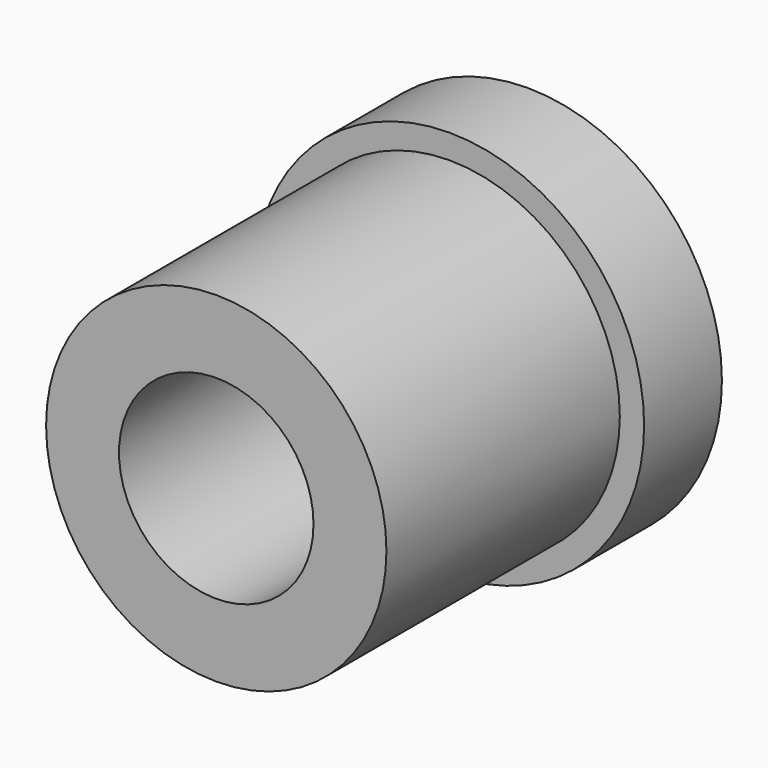
from build123d import *

# Parameters (mm, degrees)
F0_R     = 12.7
F0_R_2   = 6.35
F1_DEPTH = 25.4
F2_R     = 3.3782
F3_DEPTH = 6.35
F4_R     = 12.7
F4_R_2   = 11.1125
F5_DEPTH = 25.4
F6_R     = 4.2799
F7_DEPTH = 25.4


with BuildPart() as f1:
    # F0 (on Front) → F1 (new body)
    with BuildSketch(Plane.XZ):
        Circle(F0_R)
        Circle(F0_R_2, mode=Mode.SUBTRACT)
    extrude(amount=F1_DEPTH)

    # F4 (on face) → F5 (cut)
    with BuildSketch(Plane.XZ.offset(6.35)):
        Circle(F4_R)
        Circle(F4_R_2, mode=Mode.SUBTRACT)
    extrude(amount=F5_DEPTH, mode=Mode.SUBTRACT)


with BuildPart() as f3:
    # F2 (on Front) → F3 (new body)
    with BuildSketch(Plane.XZ):
        Circle(F2_R)
    extrude(amount=F3_DEPTH)

    # F6 (on face) → F7 (cut)
    with BuildSketch(Plane.XZ.offset(6.35)):
        Circle(F6_R)
    extrude(amount=-F7_DEPTH, mode=Mode.SUBTRACT)


solid = f1.part
